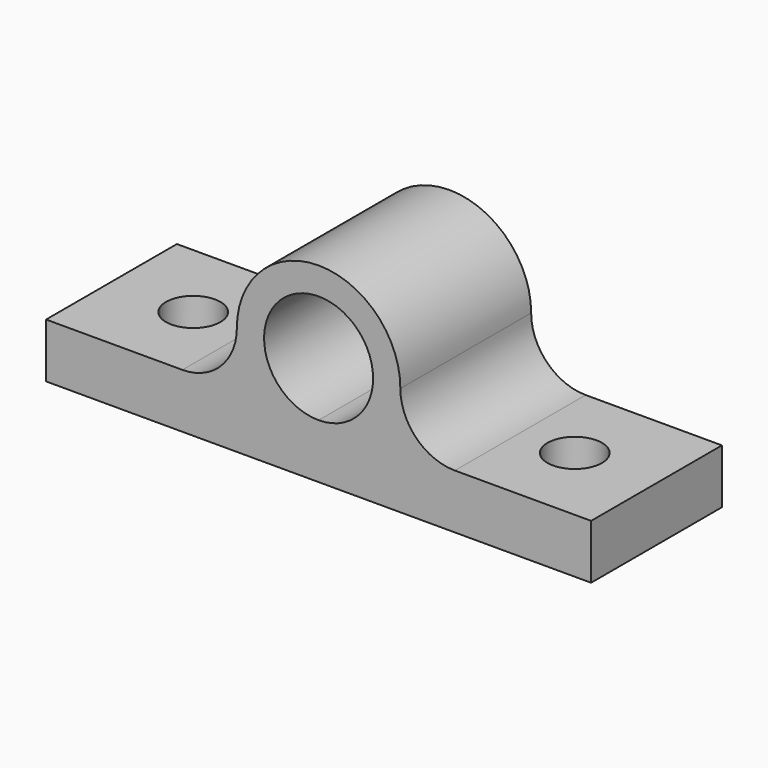
from build123d import *

# Parameters (mm, degrees)
F0_W     = 127
F0_H     = 38.1
F0_R     = 6.35
F1_DEPTH = 12.7
F3_DEPTH = 38.1


with BuildPart() as f1:
    # F0 (on Top) → F1 (new body)
    with BuildSketch(Plane.XY):
        with Locations((-2.1062232554, -25.2138755785)):
            Rectangle(F0_W, F0_H)
        with Locations((-46.5562232554, -25.2138755785)):
            Circle(F0_R, mode=Mode.SUBTRACT)
        with Locations((42.3437767446, -25.2138755785)):
            Circle(F0_R, mode=Mode.SUBTRACT)
    extrude(amount=F1_DEPTH)

    # F2 (on face) → F3 (join, through all)
    with BuildSketch(Plane.XZ.offset(44.2638755785)):
        with BuildLine():
            ThreePointArc((12.0928084017, 12.7), (15.6897601828, 18.6025391898), (16.9437767446, 25.4))
            ThreePointArc((16.9437767446, 25.4), (-2.1062232554, 44.45), (-21.1562232554, 25.4))
            ThreePointArc((-21.1562232554, 25.4), (-19.9022066936, 18.6025391898), (-16.3052549125, 12.7))
            Line((-16.3052549125, 12.7), (-2.1062232095, 12.7))
            Line((-2.1062232095, 12.7), (12.0928084017, 12.7))
        make_face()
        with BuildLine():
            ThreePointArc((10.5937767446, 25.4), (6.8740328819, 16.4197438952), (-2.1062232095, 12.7))
            ThreePointArc((-2.1062232095, 12.7), (-11.0864793927, 34.3802561048), (10.5937767446, 25.4))
        make_face(mode=Mode.SUBTRACT)
        with BuildLine():
            ThreePointArc((29.6437767446, 12.7), (20.6635206235, 16.4197438789), (16.9437767446, 25.4))
            ThreePointArc((16.9437767446, 25.4), (15.6897601828, 18.6025391898), (12.0928084017, 12.7))
            Line((12.0928084017, 12.7), (29.6437767446, 12.7))
        make_face()
        with BuildLine():
            ThreePointArc((-16.3052549125, 12.7), (-19.9022066936, 18.6025391898), (-21.1562232554, 25.4))
            ThreePointArc((-21.1562232554, 25.4), (-24.8759671343, 16.4197438789), (-33.8562232554, 12.7))
            Line((-33.8562232554, 12.7), (-16.3052549125, 12.7))
        make_face()
        with BuildLine():
            ThreePointArc((-16.3052549125, 12.7), (-2.1062232554, 6.35), (12.0928084017, 12.7))
            Line((12.0928084017, 12.7), (-2.1062232095, 12.7))
            Line((-2.1062232095, 12.7), (-16.3052549125, 12.7))
        make_face()
    extrude(amount=-F3_DEPTH)


solid = f1.part
